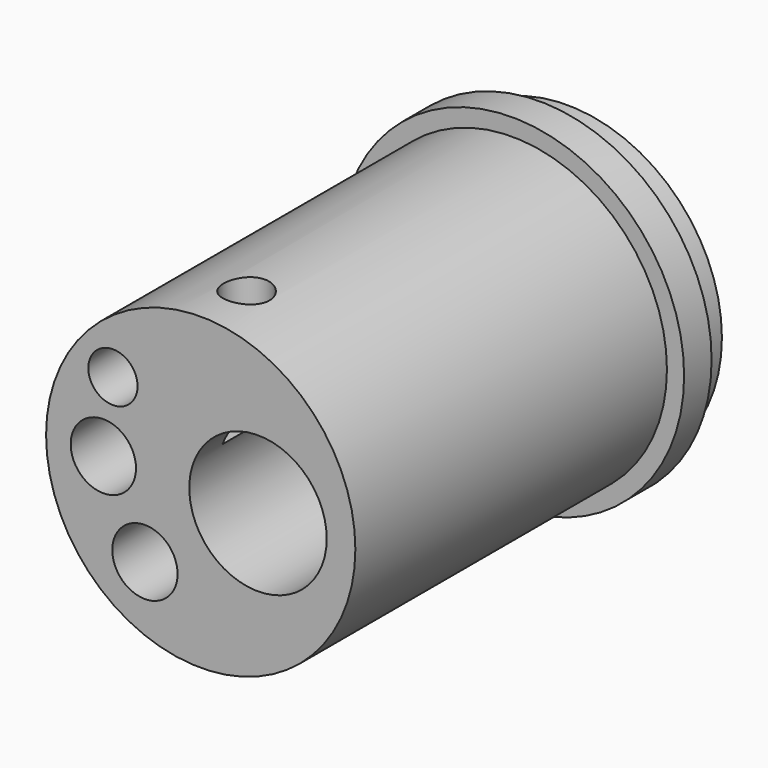
from build123d import *

# Parameters (mm, degrees)
F0_R      = 15
F1_DEPTH  = 40
F2_R      = 25.4542264432
F2_R_2    = 13.5
F3_DEPTH  = 34
F4_R      = 18.7341307963
F4_R_2    = 13.5
F5_DEPTH  = 3
F6_R      = 6
F7_DEPTH  = 40.001
F8_R      = 2.85
F9_DEPTH  = 40.001
F10_R     = 2.85
F11_DEPTH = 40.001
F12_R     = 2.15
F13_DEPTH = 20
F14_R     = 3
F15_DEPTH = 18
F17_R     = 2
F18_DEPTH = 11.5


with BuildPart() as f1:
    # F0 (on Front) → F1 (new body)
    with BuildSketch(Plane.XZ):
        Circle(F0_R)
    extrude(amount=-F1_DEPTH)

    # F2 (on face) → F3 (cut)
    with BuildSketch(Plane.XZ):
        Circle(F2_R)
        Circle(F2_R_2, mode=Mode.SUBTRACT)
    extrude(amount=-F3_DEPTH, mode=Mode.SUBTRACT)

    # F4 (on face) → F5 (cut)
    with BuildSketch(Plane(origin=(0, 40, 0), x_dir=(-1, 0, 0), z_dir=(0, 1, 0))):
        Circle(F4_R)
        Circle(F4_R_2, mode=Mode.SUBTRACT)
    extrude(amount=-F5_DEPTH, mode=Mode.SUBTRACT)

    # F6 (on face) → F7 (cut, through all)
    with BuildSketch(Plane.XZ):
        with Locations((5, 0)):
            Circle(F6_R)
    extrude(amount=-F7_DEPTH, mode=Mode.SUBTRACT)

    # F8 (on face) → F9 (cut, through all)
    with BuildSketch(Plane.XZ):
        with Locations((-4.87, -6.95)):
            Circle(F8_R)
    extrude(amount=-F9_DEPTH, mode=Mode.SUBTRACT)

    # F10 (on face) → F11 (cut, through all)
    with BuildSketch(Plane.XZ):
        with Locations((-8.5, 0)):
            Circle(F10_R)
    extrude(amount=-F11_DEPTH, mode=Mode.SUBTRACT)

    # F12 (on face) → F13 (cut)
    with BuildSketch(Plane.XZ):
        with Locations((-7.6642647059, 6.3451986981)):
            Circle(F12_R)
    extrude(amount=-F13_DEPTH, mode=Mode.SUBTRACT)

    # F14 (on face) → F15 (cut)
    with BuildSketch(Plane(origin=(0, 40, 0), x_dir=(-1, 0, 0), z_dir=(0, 1, 0))):
        with Locations((4.62, 7.15)):
            Circle(F14_R)
    extrude(amount=-F15_DEPTH, mode=Mode.SUBTRACT)

    # F17 (on offset) → F18 (cut)
    with BuildSketch(Plane.XY.offset(13.75)):
        with Locations((0, 5)):
            Circle(F17_R)
    extrude(amount=-F18_DEPTH, mode=Mode.SUBTRACT)

    # F20 (on offset) → F21 (revolve, cut)
    with BuildSketch(Plane.XZ.offset(-5)):
        Polygon((5.2748702346, -12.4268155216), (2.9304834637, -6.9037864009), (1.0894737568, -7.6852486579), (3.4338605277, -13.2082777786), align=None)
    revolve(axis=Axis((2.6374351173, 5, -6.2134077608), (0.3907311285, 0, -0.9205048535)), mode=Mode.SUBTRACT)


solid = f1.part
